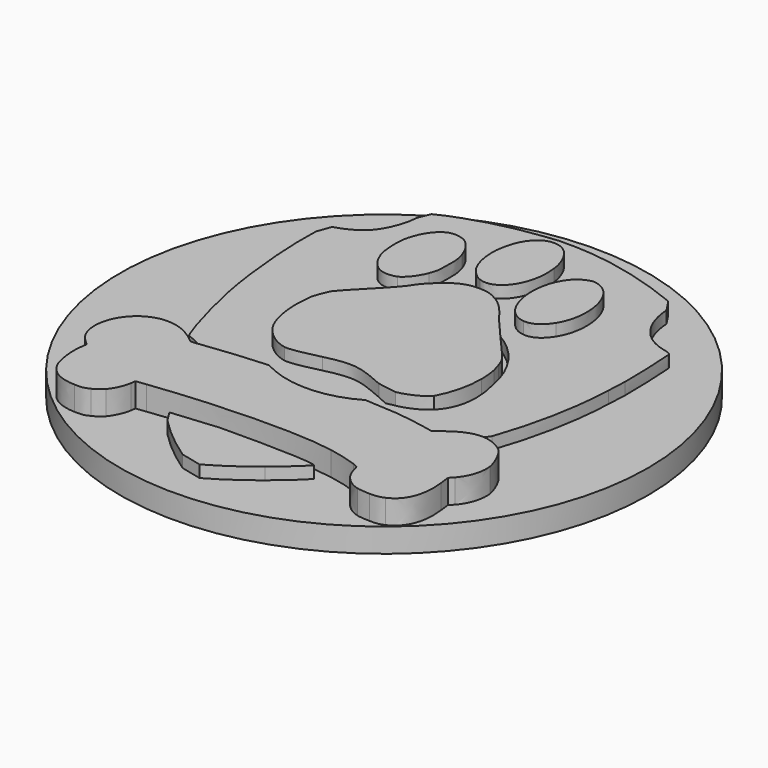
from build123d import *

# Parameters (mm, degrees)
F0_R     = 5.75
F0_R_2   = 4.05
F1_DEPTH = 2
F0_R_3   = 11
F2_DEPTH = 1
F3_DEPTH = 4.5
F5_DEPTH = 1
F6_DEPTH = 0.5


with BuildPart() as f1:
    # F0 (on Top) → F1 (new body)
    with BuildSketch(Plane.XY):
        Circle(F0_R)
        Circle(F0_R_2, mode=Mode.SUBTRACT)
    extrude(amount=-F1_DEPTH)


with BuildPart() as f2:
    # F0 (on Top) → F2 (new body)
    with BuildSketch(Plane.XY):
        Circle(F0_R_3)
        Circle(F0_R, mode=Mode.SUBTRACT)
    extrude(amount=-F2_DEPTH)


with BuildPart() as f3:
    # F0 (on Top) → F3 (new body)
    with BuildSketch(Plane.XY):
        Circle(F0_R_2)
    extrude(amount=-F3_DEPTH)


with BuildPart() as f5:
    # F4 (on face) → F5 (new body)
    with BuildSketch(Plane.XY):
        with BuildLine():
            add(Edge.make_bspline(
                [(-2.0598935137, 3.4870243349), (-1.946372116, 3.6233541748), (-1.8687601808, 3.7307159577), (-1.807693, 3.830798)],
                knots=[0.6098591878, 0.6098591878, 0.6098591878, 0.6098591878, 1, 1, 1, 1], degree=3))
            ThreePointArc((-2.0598935137, 3.4870243349), (-0.0563380164, 4.0496081326), (1.9620923492, 3.5429780712))
            add(Edge.make_bspline(
                [(1.740218, 3.822102), (1.7959444603, 3.7482035044), (1.8725986421, 3.652027252), (1.9620923492, 3.5429780712)],
                knots=[0, 0, 0, 0, 0.2786267292, 0.2786267292, 0.2786267292, 0.2786267292], degree=3))
            add(Edge.make_bspline(
                [(0.679323, 4.804734), (1.074984, 4.609077), (1.31412, 4.387333), (1.740218, 3.822102)],
                knots=[0, 0, 0, 0, 1, 1, 1, 1], degree=3))
            add(Edge.make_bspline(
                [(0.048873, 4.956912), (0.340184, 4.943868), (0.444534, 4.922128), (0.679323, 4.804734)],
                knots=[0, 0, 0, 0, 1, 1, 1, 1], degree=3))
            add(Edge.make_bspline(
                [(-1.003326, 4.635165), (-0.646796, 4.882997), (-0.355485, 4.969956), (0.048873, 4.956912)],
                knots=[0, 0, 0, 0, 1, 1, 1, 1], degree=3))
            add(Edge.make_bspline(
                [(-1.807693, 3.830798), (-1.681603, 4.043847), (-1.26855, 4.452552), (-1.003326, 4.635165)],
                knots=[0, 0, 0, 0, 1, 1, 1, 1], degree=3))
        make_face()
        with BuildLine():
            ThreePointArc((-3.6373711453, 1.7810196942), (-3.7819511552, 1.4489118192), (-3.8962803932, 1.1052145028))
            add(Edge.make_bspline(
                [(-3.929483, 0.804639), (-3.9181753571, 0.9189714169), (-3.9080476445, 1.0175109109), (-3.8962803932, 1.1052145028)],
                knots=[0, 0, 0, 0, 0.1444826156, 0.1444826156, 0.1444826156, 0.1444826156], degree=3))
            add(Edge.make_bspline(
                [(-3.542517, -1.378022), (-3.859916, -0.87801), (-4.012093, -0.021468), (-3.929483, 0.804639)],
                knots=[0, 0, 0, 0, 1, 1, 1, 1], degree=3))
            add(Edge.make_bspline(
                [(-2.372924, -2.225868), (-2.799021, -2.143257), (-3.26425, -1.808467), (-3.542517, -1.378022)],
                knots=[0, 0, 0, 0, 1, 1, 1, 1], degree=3))
            add(Edge.make_bspline(
                [(-0.972891, -2.004124), (-1.712039, -2.191085), (-2.172919, -2.260652), (-2.372924, -2.225868)],
                knots=[0, 0, 0, 0, 1, 1, 1, 1], degree=3))
            add(Edge.make_bspline(
                [(1.635867, -2.321523), (0.470622, -1.786727), (0.0967, -1.7389), (-0.972891, -2.004124)],
                knots=[0, 0, 0, 0, 1, 1, 1, 1], degree=3))
            Line((1.635867, -2.321523), (2.431538, -2.45196))
            add(Edge.make_bspline(
                [(3.5822242144, -1.8894892637), (3.2985593844, -2.1639550172), (2.9045139626, -2.3549396235), (2.431538, -2.45196)],
                knots=[0.0702407617, 0.0702407617, 0.0702407617, 0.0702407617, 1, 1, 1, 1], degree=3))
            ThreePointArc((3.5822242144, -1.8894892637), (3.9313170864, -0.9732656194), (4.05, 0))
            ThreePointArc((4.05, 0), (4.0326794686, 0.374160799), (3.980866023, 0.7451212701))
            add(Edge.make_bspline(
                [(3.870703, 1.11769), (3.9121343591, 0.9904663852), (3.9488527816, 0.8662638847), (3.980866023, 0.7451212701)],
                knots=[0, 0, 0, 0, 0.0962523878, 0.0962523878, 0.0962523878, 0.0962523878], degree=3))
            add(Edge.make_bspline(
                [(2.775025, 2.600334), (3.670698, 1.613354), (3.735917, 1.526395), (3.870703, 1.11769)],
                knots=[0, 0, 0, 0, 1, 1, 1, 1], degree=3))
            add(Edge.make_bspline(
                [(1.9620923492, 3.5429780712), (2.1937943413, 3.2606463494), (2.5115607258, 2.8920263317), (2.775025, 2.600334)],
                knots=[0.2786267292, 0.2786267292, 0.2786267292, 0.2786267292, 1, 1, 1, 1], degree=3))
            ThreePointArc((1.9620923492, 3.5429780712), (-0.0563380164, 4.0496081326), (-2.0598935137, 3.4870243349))
            add(Edge.make_bspline(
                [(-2.929459, 2.552507), (-2.502547201, 2.9900248602), (-2.2373475643, 3.2739166496), (-2.0598935137, 3.4870243349)],
                knots=[0, 0, 0, 0, 0.6098591878, 0.6098591878, 0.6098591878, 0.6098591878], degree=3))
            add(Edge.make_bspline(
                [(-3.6373711453, 1.7810196942), (-3.4980923692, 1.968232393), (-3.2806315038, 2.1928519272), (-2.929459, 2.552507)],
                knots=[0.6098174334, 0.6098174334, 0.6098174334, 0.6098174334, 1, 1, 1, 1], degree=3))
        make_face()
    extrude(amount=F5_DEPTH)


with BuildPart() as f5b:
    # F4 (on face) → F5, piece 2 (new body)
    with BuildSketch(Plane.XY):
        with BuildLine():
            add(Edge.make_bspline(
                [(0.274965, 8.891788), (0.631495, 8.726567), (0.948894, 8.17438), (1.027157, 7.578713)],
                knots=[0, 0, 0, 0, 1, 1, 1, 1], degree=3))
            add(Edge.make_bspline(
                [(-1.233766, 7.504799), (-1.094633, 8.613521), (-0.433747, 9.217883), (0.274965, 8.891788)],
                knots=[0, 0, 0, 0, 1, 1, 1, 1], degree=3))
            add(Edge.make_bspline(
                [(-1.007674, 6.083026), (-1.203331, 6.461295), (-1.294637, 7.035222), (-1.233766, 7.504799)],
                knots=[0, 0, 0, 0, 1, 1, 1, 1], degree=3))
            add(Edge.make_bspline(
                [(-0.381572, 5.461272), (-0.594621, 5.543882), (-0.877236, 5.82215), (-1.007674, 6.083026)],
                knots=[0, 0, 0, 0, 1, 1, 1, 1], degree=3))
            add(Edge.make_bspline(
                [(1.027157, 7.578713), (1.205422, 6.256943), (0.461926, 5.139525), (-0.381572, 5.461272)],
                knots=[0, 0, 0, 0, 1, 1, 1, 1], degree=3))
        make_face()
    extrude(amount=F5_DEPTH)


with BuildPart() as f5c:
    # F4 (on face) → F5, piece 3 (new body)
    with BuildSketch(Plane.XY):
        with BuildLine():
            add(Edge.make_bspline(
                [(-2.477274, 7.283054), (-2.251182, 7.122181), (-2.046829, 6.817826), (-1.920739, 6.456947)],
                knots=[0, 0, 0, 0, 1, 1, 1, 1], degree=3))
            add(Edge.make_bspline(
                [(-3.216422, 7.400448), (-2.994678, 7.470015), (-2.668583, 7.41784), (-2.477274, 7.283054)],
                knots=[0, 0, 0, 0, 1, 1, 1, 1], degree=3))
            add(Edge.make_bspline(
                [(-4.042529, 6.261291), (-3.899047, 6.835217), (-3.564257, 7.29175), (-3.216422, 7.400448)],
                knots=[0, 0, 0, 0, 1, 1, 1, 1], degree=3))
            add(Edge.make_bspline(
                [(-3.97731, 4.787342), (-4.107748, 5.126481), (-4.142531, 5.883021), (-4.042529, 6.261291)],
                knots=[0, 0, 0, 0, 1, 1, 1, 1], degree=3))
            add(Edge.make_bspline(
                [(-2.964242, 3.878625), (-3.407731, 3.878625), (-3.74687, 4.187328), (-3.97731, 4.787342)],
                knots=[0, 0, 0, 0, 1, 1, 1, 1], degree=3))
            add(Edge.make_bspline(
                [(-2.585972, 3.943844), (-2.651191, 3.909061), (-2.820761, 3.878625), (-2.964242, 3.878625)],
                knots=[0, 0, 0, 0, 1, 1, 1, 1], degree=3))
            add(Edge.make_bspline(
                [(-1.946827, 4.778647), (-2.077265, 4.422116), (-2.351184, 4.061238), (-2.585972, 3.943844)],
                knots=[0, 0, 0, 0, 1, 1, 1, 1], degree=3))
            add(Edge.make_bspline(
                [(-1.820737, 5.639537), (-1.820737, 5.174308), (-1.833781, 5.083002), (-1.946827, 4.778647)],
                knots=[0, 0, 0, 0, 1, 1, 1, 1], degree=3))
            add(Edge.make_bspline(
                [(-1.920739, 6.456947), (-1.838129, 6.209115), (-1.820737, 6.07433), (-1.820737, 5.639537)],
                knots=[0, 0, 0, 0, 1, 1, 1, 1], degree=3))
        make_face()
    extrude(amount=F5_DEPTH)


with BuildPart() as f5d:
    # F4 (on face) → F5, piece 4 (new body)
    with BuildSketch(Plane.XY):
        with BuildLine():
            add(Edge.make_bspline(
                [(2.875027, 7.591757), (3.748961, 7.29175), (4.0881, 5.591709), (3.470694, 4.613425)],
                knots=[0, 0, 0, 0, 1, 1, 1, 1], degree=3))
            add(Edge.make_bspline(
                [(2.461974, 7.622193), (2.622847, 7.67002), (2.644587, 7.67002), (2.875027, 7.591757)],
                knots=[0, 0, 0, 0, 1, 1, 1, 1], degree=3))
            add(Edge.make_bspline(
                [(1.940222, 7.283054), (2.083704, 7.448275), (2.253273, 7.556974), (2.461974, 7.622193)],
                knots=[0, 0, 0, 0, 1, 1, 1, 1], degree=3))
            add(Edge.make_bspline(
                [(2.566324, 4.061238), (1.48369, 4.152545), (1.070636, 6.291726), (1.940222, 7.283054)],
                knots=[0, 0, 0, 0, 1, 1, 1, 1], degree=3))
            add(Edge.make_bspline(
                [(3.470694, 4.613425), (3.209818, 4.209068), (2.922854, 4.030803), (2.566324, 4.061238)],
                knots=[0, 0, 0, 0, 1, 1, 1, 1], degree=3))
        make_face()
    extrude(amount=F5_DEPTH)


with BuildPart() as f5e:
    # F4 (on face) → F5, piece 5 (new body)
    with BuildSketch(Plane.XY):
        with BuildLine():
            ThreePointArc((2.0291513109, -3.505002847), (0.0402508783, -4.0497999786), (-1.959085038, -3.5446418457))
            add(Edge.make_bspline(
                [(-4.559933, -3.791123), (-3.7199444934, -3.6791246597), (-2.8512647955, -3.5968068856), (-1.959085038, -3.5446418457)],
                knots=[0, 0, 0, 0, 0.4770190143, 0.4770190143, 0.4770190143, 0.4770190143], degree=3))
            add(Edge.make_bspline(
                [(-5.103424, -3.751991), (-4.994726, -3.847646), (-4.990378, -3.847646), (-4.559933, -3.791123)],
                knots=[0, 0, 0, 0, 1, 1, 1, 1], degree=3))
            add(Edge.make_bspline(
                [(-5.894747, -3.282415), (-5.67735, -3.351982), (-5.281689, -3.591118), (-5.103424, -3.751991)],
                knots=[0, 0, 0, 0, 1, 1, 1, 1], degree=3))
            add(Edge.make_bspline(
                [(-7.259997, -3.386765), (-6.846944, -3.151977), (-6.377367, -3.117194), (-5.894747, -3.282415)],
                knots=[0, 0, 0, 0, 1, 1, 1, 1], degree=3))
            add(Edge.make_bspline(
                [(-7.712182, -5.91726), (-8.433938, -5.265071), (-8.194802, -3.917213), (-7.259997, -3.386765)],
                knots=[0, 0, 0, 0, 1, 1, 1, 1], degree=3))
            Line((-7.712182, -5.91726), (-7.507829, -6.104221))
            Line((-7.507829, -6.104221), (-7.54696, -6.404228))
            add(Edge.make_bspline(
                [(-7.403479, -7.717303), (-7.533916, -7.365121), (-7.599135, -6.773803), (-7.54696, -6.404228)],
                knots=[0, 0, 0, 0, 1, 1, 1, 1], degree=3))
            add(Edge.make_bspline(
                [(-6.042577, -8.56515), (-6.720854, -8.552106), (-7.199126, -8.252099), (-7.403479, -7.717303)],
                knots=[0, 0, 0, 0, 1, 1, 1, 1], degree=3))
            add(Edge.make_bspline(
                [(-5.442562, -8.456451), (-5.655611, -8.560802), (-5.733874, -8.573845), (-6.042577, -8.56515)],
                knots=[0, 0, 0, 0, 1, 1, 1, 1], degree=3))
            add(Edge.make_bspline(
                [(-5.055597, -8.178184), (-5.133859, -8.265142), (-5.307776, -8.391232), (-5.442562, -8.456451)],
                knots=[0, 0, 0, 0, 1, 1, 1, 1], degree=3))
            add(Edge.make_bspline(
                [(-4.677327, -7.347729), (-4.71211, -7.612953), (-4.877331, -7.973831), (-5.055597, -8.178184)],
                knots=[0, 0, 0, 0, 1, 1, 1, 1], degree=3))
            Line((-4.677327, -7.347729), (-4.646891, -7.143377))
            Line((-4.646891, -7.143377), (-4.233838, -7.091201))
            add(Edge.make_bspline(
                [(3.340256, -6.94772), (1.779349, -6.669452), (-1.338117, -6.730323), (-4.233838, -7.091201)],
                knots=[0, 0, 0, 0, 1, 1, 1, 1], degree=3))
            add(Edge.make_bspline(
                [(4.522893, -7.256423), (4.253321, -7.152072), (3.727221, -7.017287), (3.340256, -6.94772)],
                knots=[0, 0, 0, 0, 1, 1, 1, 1], degree=3))
            add(Edge.make_bspline(
                [(4.805508, -7.573822), (4.753333, -7.343381), (4.748985, -7.339033), (4.522893, -7.256423)],
                knots=[0, 0, 0, 0, 1, 1, 1, 1], degree=3))
            add(Edge.make_bspline(
                [(5.701181, -8.52167), (5.257693, -8.39558), (4.90551, -8.026006), (4.805508, -7.573822)],
                knots=[0, 0, 0, 0, 1, 1, 1, 1], degree=3))
            add(Edge.make_bspline(
                [(6.244673, -8.573845), (6.04032, -8.569497), (5.796836, -8.547758), (5.701181, -8.52167)],
                knots=[0, 0, 0, 0, 1, 1, 1, 1], degree=3))
            add(Edge.make_bspline(
                [(6.840339, -8.473843), (6.657726, -8.556454), (6.540332, -8.573845), (6.244673, -8.573845)],
                knots=[0, 0, 0, 0, 1, 1, 1, 1], degree=3))
            add(Edge.make_bspline(
                [(7.596879, -6.521623), (7.714273, -7.512951), (7.449049, -8.204271), (6.840339, -8.473843)],
                knots=[0, 0, 0, 0, 1, 1, 1, 1], degree=3))
            Line((7.596879, -6.521623), (7.544704, -6.112917))
            Line((7.544704, -6.112917), (7.705577, -5.939))
            add(Edge.make_bspline(
                [(8.114282, -4.617229), (8.183849, -5.05637), (8.022976, -5.586818), (7.705577, -5.939)],
                knots=[0, 0, 0, 0, 1, 1, 1, 1], degree=3))
            add(Edge.make_bspline(
                [(7.640358, -3.58677), (7.831667, -3.804167), (8.062107, -4.312874), (8.114282, -4.617229)],
                knots=[0, 0, 0, 0, 1, 1, 1, 1], degree=3))
            add(Edge.make_bspline(
                [(7.231653, -3.295459), (7.379482, -3.369374), (7.562095, -3.499811), (7.640358, -3.58677)],
                knots=[0, 0, 0, 0, 1, 1, 1, 1], degree=3))
            add(Edge.make_bspline(
                [(5.357695, -3.643293), (6.057712, -3.108498), (6.62729, -2.9998), (7.231653, -3.295459)],
                knots=[0, 0, 0, 0, 1, 1, 1, 1], degree=3))
            Line((5.357695, -3.643293), (5.070732, -3.865038))
            Line((5.070732, -3.865038), (4.753333, -3.799819))
            add(Edge.make_bspline(
                [(2.0291513109, -3.505002847), (3.1863901056, -3.5444054056), (3.9146086977, -3.6265284465), (4.753333, -3.799819)],
                knots=[0.2028843381, 0.2028843381, 0.2028843381, 0.2028843381, 1, 1, 1, 1], degree=3))
        make_face()
    extrude(amount=F5_DEPTH)


with BuildPart() as f6:
    # F4 (on face) → F6 (new body)
    with BuildSketch(Plane.XY):
        with BuildLine():
            add(Edge.make_bspline(
                [(-1.255506, 9.878768), (-2.616408, 9.730939), (-4.120792, 9.313537), (-5.081684, 8.817873)],
                knots=[0, 0, 0, 0, 1, 1, 1, 1], degree=3))
            Line((-5.081684, 8.817873), (-5.281689, 8.335253))
            add(Edge.make_bspline(
                [(-5.281689, 8.335253), (-5.325168, 7.726543), (-5.559956, 7.130877), (-5.920835, 6.717823)],
                knots=[0, 0, 0, 0, 1, 1, 1, 1], degree=3))
            add(Edge.make_bspline(
                [(-5.920835, 6.717823), (-6.138231, 6.469991), (-6.603459, 6.213463), (-7.0426, 6.100417)],
                knots=[0, 0, 0, 0, 1, 1, 1, 1], degree=3))
            Line((-7.0426, 6.100417), (-7.251301, 5.522143))
            add(Edge.make_bspline(
                [(-7.251301, 5.522143), (-7.320868, 4.200372), (-7.120863, 1.895969), (-6.794768, 0.313323)],
                knots=[0, 0, 0, 0, 1, 1, 1, 1], degree=3))
            add(Edge.make_bspline(
                [(-6.794768, 0.313323), (-6.533893, -0.951925), (-5.981706, -2.817187), (-5.864311, -2.817187)],
                knots=[0, 0, 0, 0, 1, 1, 1, 1], degree=3))
            add(Edge.make_bspline(
                [(-5.864311, -2.817187), (-5.768657, -2.817187), (-5.351256, -3.025887), (-5.094728, -3.199804)],
                knots=[0, 0, 0, 0, 1, 1, 1, 1], degree=3))
            Line((-5.094728, -3.199804), (-4.442538, -3.31285))
            add(Edge.make_bspline(
                [(-4.442538, -3.31285), (-4.220794, -3.282415), (-3.59904, -3.217196), (-3.059897, -3.169369)],
                knots=[0, 0, 0, 0, 1, 1, 1, 1], degree=3))
            add(Edge.make_bspline(
                [(-3.059897, -3.169369), (-2.8958003502, -3.154451098), (-2.733625183, -3.1404617015), (-2.5732991596, -3.1274001079)],
                knots=[0, 0, 0, 0, 0.0544607988, 0.0544607988, 0.0544607988, 0.0544607988], degree=3))
            ThreePointArc((-2.5732991596, -3.1274001079), (-3.8655687173, -1.2082543157), (-3.8962803932, 1.1052145028))
            add(Edge.make_bspline(
                [(-3.8962803932, 1.1052145028), (-3.8583816349, 1.3876812534), (-3.8034761163, 1.5577483476), (-3.6373711453, 1.7810196942)],
                knots=[0.1444826156, 0.1444826156, 0.1444826156, 0.1444826156, 0.6098174334, 0.6098174334, 0.6098174334, 0.6098174334], degree=3))
            ThreePointArc((-3.6373711453, 1.7810196942), (-2.973603724, 2.7495783118), (-2.0598935137, 3.4870243349))
            add(Edge.make_bspline(
                [(-2.0598935137, 3.4870243349), (-1.946372116, 3.6233541748), (-1.8687601808, 3.7307159577), (-1.807693, 3.830798)],
                knots=[0.6098591878, 0.6098591878, 0.6098591878, 0.6098591878, 1, 1, 1, 1], degree=3))
            add(Edge.make_bspline(
                [(-1.807693, 3.830798), (-1.681603, 4.043847), (-1.26855, 4.452552), (-1.003326, 4.635165)],
                knots=[0, 0, 0, 0, 1, 1, 1, 1], degree=3))
            add(Edge.make_bspline(
                [(-1.003326, 4.635165), (-0.646796, 4.882997), (-0.355485, 4.969956), (0.048873, 4.956912)],
                knots=[0, 0, 0, 0, 1, 1, 1, 1], degree=3))
            add(Edge.make_bspline(
                [(0.048873, 4.956912), (0.340184, 4.943868), (0.444534, 4.922128), (0.679323, 4.804734)],
                knots=[0, 0, 0, 0, 1, 1, 1, 1], degree=3))
            add(Edge.make_bspline(
                [(0.679323, 4.804734), (1.074984, 4.609077), (1.31412, 4.387333), (1.740218, 3.822102)],
                knots=[0, 0, 0, 0, 1, 1, 1, 1], degree=3))
            add(Edge.make_bspline(
                [(1.740218, 3.822102), (1.7959444603, 3.7482035044), (1.8725986421, 3.652027252), (1.9620923492, 3.5429780712)],
                knots=[0, 0, 0, 0, 0.2786267292, 0.2786267292, 0.2786267292, 0.2786267292], degree=3))
            ThreePointArc((1.9620923492, 3.5429780712), (3.2843095504, 2.3697701949), (3.980866023, 0.7451212701))
            add(Edge.make_bspline(
                [(3.980866023, 0.7451212701), (4.2814496358, -0.3923294584), (4.1672247467, -1.2600208125), (3.644611, -1.825859)],
                knots=[0.0962523878, 0.0962523878, 0.0962523878, 0.0962523878, 1, 1, 1, 1], degree=3))
            add(Edge.make_bspline(
                [(3.644611, -1.825859), (3.6244544301, -1.8475425338), (3.6036543147, -1.8687541284), (3.5822242144, -1.8894892637)],
                knots=[0, 0, 0, 0, 0.0702407617, 0.0702407617, 0.0702407617, 0.0702407617], degree=3))
            ThreePointArc((3.5822242144, -1.8894892637), (3.1693310771, -2.5214758622), (2.6463228278, -3.0658564042))
            add(Edge.make_bspline(
                [(2.6463228278, -3.0658564042), (3.2800444431, -3.1147251635), (3.8894368648, -3.186941347), (4.483761, -3.282415)],
                knots=[0.725519492, 0.725519492, 0.725519492, 0.725519492, 1, 1, 1, 1], degree=3))
            Line((4.483761, -3.282415), (5.222909, -3.130237))
            add(Edge.make_bspline(
                [(5.222909, -3.130237), (5.392478, -3.008495), (5.644658, -2.865014), (5.783792, -2.808491)],
                knots=[0, 0, 0, 0, 1, 1, 1, 1], degree=3))
            Line((5.783792, -2.808491), (6.235977, -2.164997))
            add(Edge.make_bspline(
                [(6.235977, -2.164997), (6.783816, -0.599742), (7.118607, 1.108994), (7.179478, 2.722076)],
                knots=[0, 0, 0, 0, 1, 1, 1, 1], degree=3))
            add(Edge.make_bspline(
                [(7.179478, 2.722076), (7.196869, 3.056866), (7.209913, 3.422093), (7.218609, 3.530791)],
                knots=[0, 0, 0, 0, 1, 1, 1, 1], degree=3))
            add(Edge.make_bspline(
                [(7.218609, 3.530791), (7.236001, 3.782971), (7.170782, 5.683016), (7.135998, 5.861281)],
                knots=[0, 0, 0, 0, 1, 1, 1, 1], degree=3))
            add(Edge.make_bspline(
                [(7.135998, 5.861281), (7.114259, 5.987371), (7.092519, 6.000415), (6.818599, 6.069982)],
                knots=[0, 0, 0, 0, 1, 1, 1, 1], degree=3))
            add(Edge.make_bspline(
                [(6.818599, 6.069982), (6.401198, 6.169984), (6.096843, 6.335205), (5.835967, 6.591733)],
                knots=[0, 0, 0, 0, 1, 1, 1, 1], degree=3))
            add(Edge.make_bspline(
                [(5.835967, 6.591733), (5.40987, 7.01783), (5.166386, 7.604801), (5.127255, 8.30047)],
                knots=[0, 0, 0, 0, 1, 1, 1, 1], degree=3))
            Line((5.127255, 8.30047), (4.770725, 8.839613))
            add(Edge.make_bspline(
                [(4.770725, 8.839613), (3.192426, 9.500498), (1.457602, 9.909204), (0.092352, 9.943987)],
                knots=[0, 0, 0, 0, 1, 1, 1, 1], degree=3))
            add(Edge.make_bspline(
                [(0.092352, 9.943987), (-0.290266, 9.952683), (-0.642448, 9.952683), (-0.690275, 9.943987)],
                knots=[0, 0, 0, 0, 1, 1, 1, 1], degree=3))
            add(Edge.make_bspline(
                [(-0.690275, 9.943987), (-0.738102, 9.935291), (-0.990282, 9.904856), (-1.255506, 9.878768)],
                knots=[0, 0, 0, 0, 1, 1, 1, 1], degree=3))
        make_face()
        with BuildLine():
            add(Edge.make_bspline(
                [(-3.216422, 7.400448), (-2.994678, 7.470015), (-2.668583, 7.41784), (-2.477274, 7.283054)],
                knots=[0, 0, 0, 0, 1, 1, 1, 1], degree=3))
            add(Edge.make_bspline(
                [(-2.477274, 7.283054), (-2.251182, 7.122181), (-2.046829, 6.817826), (-1.920739, 6.456947)],
                knots=[0, 0, 0, 0, 1, 1, 1, 1], degree=3))
            add(Edge.make_bspline(
                [(-1.920739, 6.456947), (-1.838129, 6.209115), (-1.820737, 6.07433), (-1.820737, 5.639537)],
                knots=[0, 0, 0, 0, 1, 1, 1, 1], degree=3))
            add(Edge.make_bspline(
                [(-1.820737, 5.639537), (-1.820737, 5.174308), (-1.833781, 5.083002), (-1.946827, 4.778647)],
                knots=[0, 0, 0, 0, 1, 1, 1, 1], degree=3))
            add(Edge.make_bspline(
                [(-1.946827, 4.778647), (-2.077265, 4.422116), (-2.351184, 4.061238), (-2.585972, 3.943844)],
                knots=[0, 0, 0, 0, 1, 1, 1, 1], degree=3))
            add(Edge.make_bspline(
                [(-2.585972, 3.943844), (-2.651191, 3.909061), (-2.820761, 3.878625), (-2.964242, 3.878625)],
                knots=[0, 0, 0, 0, 1, 1, 1, 1], degree=3))
            add(Edge.make_bspline(
                [(-2.964242, 3.878625), (-3.407731, 3.878625), (-3.74687, 4.187328), (-3.97731, 4.787342)],
                knots=[0, 0, 0, 0, 1, 1, 1, 1], degree=3))
            add(Edge.make_bspline(
                [(-3.97731, 4.787342), (-4.107748, 5.126481), (-4.142531, 5.883021), (-4.042529, 6.261291)],
                knots=[0, 0, 0, 0, 1, 1, 1, 1], degree=3))
            add(Edge.make_bspline(
                [(-4.042529, 6.261291), (-3.899047, 6.835217), (-3.564257, 7.29175), (-3.216422, 7.400448)],
                knots=[0, 0, 0, 0, 1, 1, 1, 1], degree=3))
        make_face(mode=Mode.SUBTRACT)
        with BuildLine():
            add(Edge.make_bspline(
                [(-1.233766, 7.504799), (-1.094633, 8.613521), (-0.433747, 9.217883), (0.274965, 8.891788)],
                knots=[0, 0, 0, 0, 1, 1, 1, 1], degree=3))
            add(Edge.make_bspline(
                [(0.274965, 8.891788), (0.631495, 8.726567), (0.948894, 8.17438), (1.027157, 7.578713)],
                knots=[0, 0, 0, 0, 1, 1, 1, 1], degree=3))
            add(Edge.make_bspline(
                [(1.027157, 7.578713), (1.205422, 6.256943), (0.461926, 5.139525), (-0.381572, 5.461272)],
                knots=[0, 0, 0, 0, 1, 1, 1, 1], degree=3))
            add(Edge.make_bspline(
                [(-0.381572, 5.461272), (-0.594621, 5.543882), (-0.877236, 5.82215), (-1.007674, 6.083026)],
                knots=[0, 0, 0, 0, 1, 1, 1, 1], degree=3))
            add(Edge.make_bspline(
                [(-1.007674, 6.083026), (-1.203331, 6.461295), (-1.294637, 7.035222), (-1.233766, 7.504799)],
                knots=[0, 0, 0, 0, 1, 1, 1, 1], degree=3))
        make_face(mode=Mode.SUBTRACT)
        with BuildLine():
            add(Edge.make_bspline(
                [(2.461974, 7.622193), (2.622847, 7.67002), (2.644587, 7.67002), (2.875027, 7.591757)],
                knots=[0, 0, 0, 0, 1, 1, 1, 1], degree=3))
            add(Edge.make_bspline(
                [(2.875027, 7.591757), (3.748961, 7.29175), (4.0881, 5.591709), (3.470694, 4.613425)],
                knots=[0, 0, 0, 0, 1, 1, 1, 1], degree=3))
            add(Edge.make_bspline(
                [(3.470694, 4.613425), (3.209818, 4.209068), (2.922854, 4.030803), (2.566324, 4.061238)],
                knots=[0, 0, 0, 0, 1, 1, 1, 1], degree=3))
            add(Edge.make_bspline(
                [(2.566324, 4.061238), (1.48369, 4.152545), (1.070636, 6.291726), (1.940222, 7.283054)],
                knots=[0, 0, 0, 0, 1, 1, 1, 1], degree=3))
            add(Edge.make_bspline(
                [(1.940222, 7.283054), (2.083704, 7.448275), (2.253273, 7.556974), (2.461974, 7.622193)],
                knots=[0, 0, 0, 0, 1, 1, 1, 1], degree=3))
        make_face(mode=Mode.SUBTRACT)
        with BuildLine():
            ThreePointArc((-3.8962803932, 1.1052145028), (-3.8655687173, -1.2082543157), (-2.5732991596, -3.1274001079))
            add(Edge.make_bspline(
                [(-2.5732991596, -3.1274001079), (-0.5977832998, -2.9664568952), (1.096980027, -2.9463805042), (2.6463228278, -3.0658564042)],
                knots=[0.0544607988, 0.0544607988, 0.0544607988, 0.0544607988, 0.725519492, 0.725519492, 0.725519492, 0.725519492], degree=3))
            ThreePointArc((2.6463228278, -3.0658564042), (3.1693310771, -2.5214758622), (3.5822242144, -1.8894892637))
            add(Edge.make_bspline(
                [(3.5822242144, -1.8894892637), (3.2985593844, -2.1639550172), (2.9045139626, -2.3549396235), (2.431538, -2.45196)],
                knots=[0.0702407617, 0.0702407617, 0.0702407617, 0.0702407617, 1, 1, 1, 1], degree=3))
            Line((2.431538, -2.45196), (2.075008, -2.521527))
            Line((2.075008, -2.521527), (1.635867, -2.321523))
            add(Edge.make_bspline(
                [(1.635867, -2.321523), (0.470622, -1.786727), (0.0967, -1.7389), (-0.972891, -2.004124)],
                knots=[0, 0, 0, 0, 1, 1, 1, 1], degree=3))
            add(Edge.make_bspline(
                [(-0.972891, -2.004124), (-1.712039, -2.191085), (-2.172919, -2.260652), (-2.372924, -2.225868)],
                knots=[0, 0, 0, 0, 1, 1, 1, 1], degree=3))
            add(Edge.make_bspline(
                [(-2.372924, -2.225868), (-2.799021, -2.143257), (-3.26425, -1.808467), (-3.542517, -1.378022)],
                knots=[0, 0, 0, 0, 1, 1, 1, 1], degree=3))
            add(Edge.make_bspline(
                [(-3.542517, -1.378022), (-3.859916, -0.87801), (-4.012093, -0.021468), (-3.929483, 0.804639)],
                knots=[0, 0, 0, 0, 1, 1, 1, 1], degree=3))
            add(Edge.make_bspline(
                [(-3.929483, 0.804639), (-3.9181753571, 0.9189714169), (-3.9080476445, 1.0175109109), (-3.8962803932, 1.1052145028)],
                knots=[0, 0, 0, 0, 0.1444826156, 0.1444826156, 0.1444826156, 0.1444826156], degree=3))
        make_face()
        with BuildLine():
            add(Edge.make_bspline(
                [(-2.5732991596, -3.1274001079), (-0.5977832998, -2.9664568952), (1.096980027, -2.9463805042), (2.6463228278, -3.0658564042)],
                knots=[0.0544607988, 0.0544607988, 0.0544607988, 0.0544607988, 0.725519492, 0.725519492, 0.725519492, 0.725519492], degree=3))
            ThreePointArc((-2.5732991596, -3.1274001079), (-2.4033237257, -3.259836663), (-2.2265451252, -3.3830454927))
            add(Edge.make_bspline(
                [(0.548885, -3.291111), (-0.4375375758, -3.291111), (-1.318132242, -3.3196676639), (-2.2265451252, -3.3830454927)],
                knots=[0, 0, 0, 0, 0.6215662783, 0.6215662783, 0.6215662783, 0.6215662783], degree=3))
            add(Edge.make_bspline(
                [(2.3085488354, -3.3276271237), (1.7804845833, -3.3030102784), (1.1955664074, -3.291111), (0.548885, -3.291111)],
                knots=[0.6389971304, 0.6389971304, 0.6389971304, 0.6389971304, 1, 1, 1, 1], degree=3))
            ThreePointArc((2.3085488354, -3.3276271237), (2.4808908233, -3.201199888), (2.6463228278, -3.0658564042))
        make_face()
        with BuildLine():
            add(Edge.make_bspline(
                [(0.548885, -3.291111), (-0.4375375758, -3.291111), (-1.318132242, -3.3196676639), (-2.2265451252, -3.3830454927)],
                knots=[0, 0, 0, 0, 0.6215662783, 0.6215662783, 0.6215662783, 0.6215662783], degree=3))
            ThreePointArc((-2.2265451252, -3.3830454927), (-2.0943742051, -3.4664241935), (-1.959085038, -3.5446418457))
            add(Edge.make_bspline(
                [(-1.959085038, -3.5446418457), (-0.9809415365, -3.487450574), (0.0254487732, -3.4665025507), (1.053245, -3.48242)],
                knots=[0.4770190143, 0.4770190143, 0.4770190143, 0.4770190143, 1, 1, 1, 1], degree=3))
            add(Edge.make_bspline(
                [(1.053245, -3.48242), (1.412270545, -3.4877126437), (1.7346073216, -3.4949739862), (2.0291513109, -3.505002847)],
                knots=[0, 0, 0, 0, 0.2028843381, 0.2028843381, 0.2028843381, 0.2028843381], degree=3))
            ThreePointArc((2.0291513109, -3.505002847), (2.1706626123, -3.4191700489), (2.3085488354, -3.3276271237))
            add(Edge.make_bspline(
                [(2.3085488354, -3.3276271237), (1.7804845833, -3.3030102784), (1.1955664074, -3.291111), (0.548885, -3.291111)],
                knots=[0.6389971304, 0.6389971304, 0.6389971304, 0.6389971304, 1, 1, 1, 1], degree=3))
        make_face()
        Polygon((-4.442538, -3.31285), (-5.094728, -3.199804), (-4.842548, -3.365026), align=None)
        Polygon((5.222909, -3.130237), (4.483761, -3.282415), (4.922902, -3.351982), align=None)
    extrude(amount=F6_DEPTH)


with BuildPart() as f6b:
    # F4 (on face) → F6, piece 2 (new body)
    with BuildSketch(Plane.XY):
        with BuildLine():
            add(Edge.make_bspline(
                [(-1.059849, -7.234683), (-1.642472, -7.273814), (-2.877284, -7.391209), (-3.01207, -7.417296)],
                knots=[0, 0, 0, 0, 1, 1, 1, 1], degree=3))
            Line((-3.01207, -7.417296), (-2.707715, -7.904264))
            add(Edge.make_bspline(
                [(-2.707715, -7.904264), (-2.120744, -8.499931), (-1.52073, -8.995595), (-0.829409, -9.460823)],
                knots=[0, 0, 0, 0, 1, 1, 1, 1], degree=3))
            Line((-0.829409, -9.460823), (0.040177, -9.669524))
            add(Edge.make_bspline(
                [(0.040177, -9.669524), (0.548885, -9.395604), (1.288033, -8.891244), (1.814132, -8.460799)],
                knots=[0, 0, 0, 0, 1, 1, 1, 1], degree=3))
            add(Edge.make_bspline(
                [(1.814132, -8.460799), (2.318492, -8.052094), (2.983725, -7.439036), (2.983725, -7.386861)],
                knots=[0, 0, 0, 0, 1, 1, 1, 1], degree=3))
            add(Edge.make_bspline(
                [(2.983725, -7.386861), (2.983725, -7.308598), (1.940222, -7.239031), (0.614104, -7.230335)],
                knots=[0, 0, 0, 0, 1, 1, 1, 1], degree=3))
            add(Edge.make_bspline(
                [(0.614104, -7.230335), (-0.172872, -7.225987), (-0.929411, -7.225987), (-1.059849, -7.234683)],
                knots=[0, 0, 0, 0, 1, 1, 1, 1], degree=3))
        make_face()
    extrude(amount=F6_DEPTH)


solid = Compound([f1.part, f2.part, f3.part, f5.part, f5b.part, f5c.part, f5d.part, f5e.part, f6.part, f6b.part])
